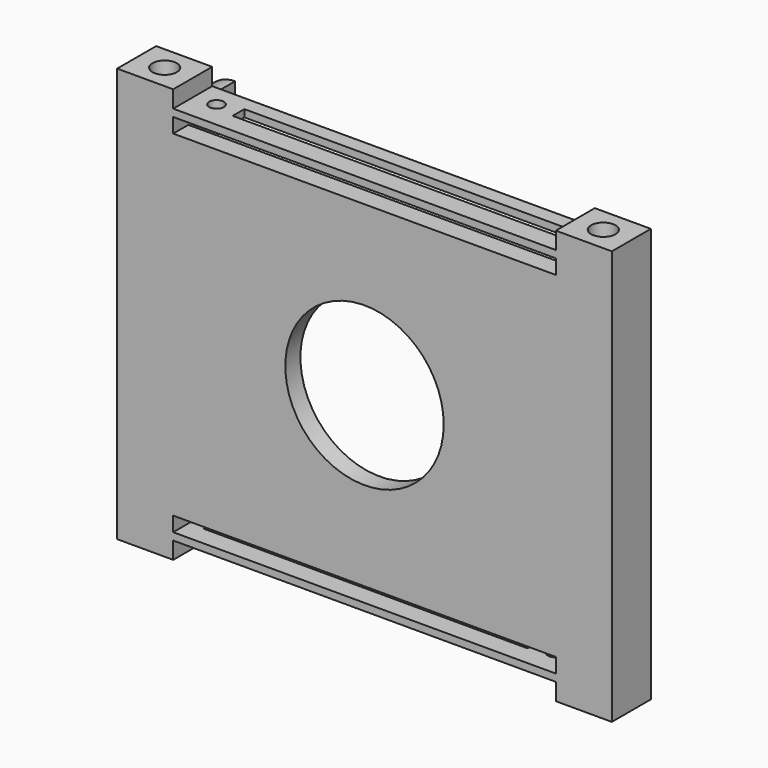
from build123d import *

# Parameters (mm, degrees)
F0_W      = 101.5
F0_H      = 85
F1_DEPTH  = 15.875
F2_R      = 16.25
F3_DEPTH  = 25
F4_W      = 101.5
F4_H      = 85
F5_DEPTH  = 5.875
F7_DEPTH  = 12
F8_W      = 78.5
F8_H      = 10
F9_DEPTH  = 3.5
F10_W     = 78.5
F10_H     = 10
F11_DEPTH = 3.5
F12_W     = 78.5
F12_H     = 3
F13_DEPTH = 25
F14_W     = 78.5
F14_H     = 17.569206
F15_DEPTH = 200
F16_W     = 78.5
F16_H     = 75
F17_DEPTH = 6.125
F18_R     = 1.5
F18_W     = 66.5
F18_H     = 3
F19_DEPTH = 2
F20_R     = 1.5
F20_W     = 66.5
F20_H     = 3
F21_DEPTH = 2
F22_R     = 2.5
F23_DEPTH = 10
F24_R     = 2.5
F25_DEPTH = 10
F26_R     = 2.5
F27_DEPTH = 5
F28_R     = 2.5
F29_DEPTH = 5


with BuildPart() as f1:
    # F0 (on Front) → F1 (new body)
    with BuildSketch(Plane.XZ):
        Rectangle(F0_W, F0_H)
    extrude(amount=F1_DEPTH)

    # F2 (on face) → F3 (cut)
    with BuildSketch(Plane.XZ.offset(15.875)):
        Circle(F2_R)
    extrude(amount=-F3_DEPTH, mode=Mode.SUBTRACT)

    # F4 (on face) → F5 (cut)
    with BuildSketch(Plane(origin=(0, 0, 0), x_dir=(-1, 0, 0), z_dir=(0, 1, 0))):
        Rectangle(F4_W, F4_H)
        with BuildLine():
            Line((-45.75, -31), (-45.75, 31))
            ThreePointArc((-45.75, 31), (-43.846194, 35.596194), (-39.25, 37.5))
            Line((-39.25, 37.5), (39.25, 37.5))
            ThreePointArc((39.25, 37.5), (43.846194, 35.596194), (45.75, 31))
            Line((45.75, 31), (45.75, -31))
            ThreePointArc((45.75, -31), (43.846194, -35.596194), (39.25, -37.5))
            Line((39.25, -37.5), (-39.25, -37.5))
            ThreePointArc((-39.25, -37.5), (-43.846194, -35.596194), (-45.75, -31))
        make_face(mode=Mode.SUBTRACT)
    extrude(amount=-F5_DEPTH, mode=Mode.SUBTRACT)

    # F6 (on face) → F7 (cut)
    with BuildSketch(Plane(origin=(0, 0, 0), x_dir=(-1, 0, 0), z_dir=(0, 1, 0))):
        with BuildLine():
            ThreePointArc((-36.25, 34.5), (-40.846194, 32.596194), (-42.75, 28))
            Line((-42.75, 28), (-42.75, -28))
            ThreePointArc((-42.75, -28), (-40.846194, -32.596194), (-36.25, -34.5))
            Line((-36.25, -34.5), (36.25, -34.5))
            ThreePointArc((36.25, -34.5), (40.846194, -32.596194), (42.75, -28))
            Line((42.75, -28), (42.75, 28))
            ThreePointArc((42.75, 28), (40.846194, 32.596194), (36.25, 34.5))
            Line((36.25, 34.5), (-36.25, 34.5))
        make_face()
    extrude(amount=-F7_DEPTH, mode=Mode.SUBTRACT)

    # F8 (on face) → F9 (cut)
    with BuildSketch(Plane.XY.offset(42.5)):
        with Locations((0, -10.875)):
            Rectangle(F8_W, F8_H)
    extrude(amount=-F9_DEPTH, mode=Mode.SUBTRACT)

    # F10 (on face) → F11 (cut)
    with BuildSketch(Plane(origin=(0, 0, -42.5), x_dir=(1, 0, 0), z_dir=(0, 0, -1))):
        with Locations((0, 10.875)):
            Rectangle(F10_W, F10_H)
    extrude(amount=-F11_DEPTH, mode=Mode.SUBTRACT)

    # F12 (on face) → F13 (cut)
    with BuildSketch(Plane.XZ.offset(15.875)):
        with Locations((0, 36)):
            Rectangle(F12_W, F12_H)
        with Locations((0, -36)):
            Rectangle(F12_W, F12_H)
    extrude(amount=-F13_DEPTH, mode=Mode.SUBTRACT)

    # F14 (on face) → F15 (cut)
    with BuildSketch(Plane.XY.offset(39)):
        with Locations((0, 2.909603)):
            Rectangle(F14_W, F14_H)
    extrude(amount=-F15_DEPTH, mode=Mode.SUBTRACT)

    # F16 (on face) → F17 (cut)
    with BuildSketch(Plane(origin=(0, -5.875, 0), x_dir=(-1, 0, 0), z_dir=(0, 1, 0))):
        Rectangle(F16_W, F16_H)
    extrude(amount=-F17_DEPTH, mode=Mode.SUBTRACT)

    # F18 (on face) → F19 (cut)
    with BuildSketch(Plane.XY.offset(39)):
        with Locations((-34.75, -10.375)):
            Circle(F18_R)
        with Locations((3, -10.375)):
            Rectangle(F18_W, F18_H)
    extrude(amount=-F19_DEPTH, mode=Mode.SUBTRACT)

    # F20 (on face) → F21 (cut)
    with BuildSketch(Plane(origin=(0, 0, -39), x_dir=(1, 0, 0), z_dir=(0, 0, -1))):
        with Locations((34.75, 10.375)):
            Circle(F20_R)
        with Locations((-3, 10.375)):
            Rectangle(F20_W, F20_H)
    extrude(amount=-F21_DEPTH, mode=Mode.SUBTRACT)

    # F22 (on face) → F23 (cut)
    with BuildSketch(Plane(origin=(0, 0, -42.5), x_dir=(1, 0, 0), z_dir=(0, 0, -1))):
        with Locations((-45, 10.875)):
            Circle(F22_R)
    extrude(amount=-F23_DEPTH, mode=Mode.SUBTRACT)

    # F24 (on face) → F25 (cut)
    with BuildSketch(Plane(origin=(0, 0, -42.5), x_dir=(1, 0, 0), z_dir=(0, 0, -1))):
        with Locations((45, 10.875)):
            Circle(F24_R)
    extrude(amount=-F25_DEPTH, mode=Mode.SUBTRACT)

    # F26 (on face) → F27 (cut)
    with BuildSketch(Plane.XY.offset(42.5)):
        with Locations((-45, -10.875)):
            Circle(F26_R)
    extrude(amount=-F27_DEPTH, mode=Mode.SUBTRACT)

    # F28 (on face) → F29 (cut)
    with BuildSketch(Plane.XY.offset(42.5)):
        with Locations((45, -10.875)):
            Circle(F28_R)
    extrude(amount=-F29_DEPTH, mode=Mode.SUBTRACT)


solid = f1.part
